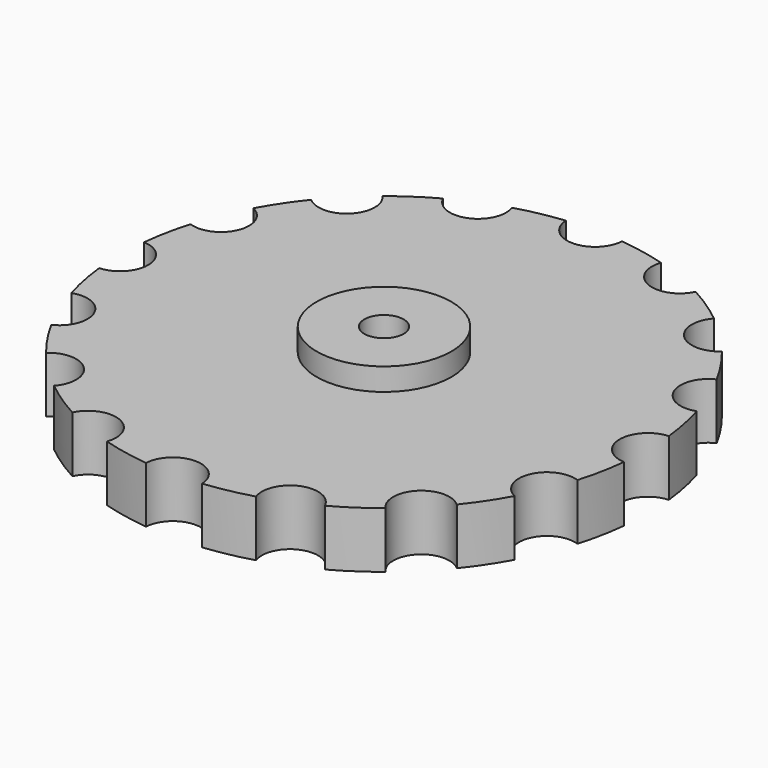
from build123d import *

# Parameters (mm, degrees)
F1_DEPTH = 5
F2_R     = 6
F3_DEPTH = 2
F4_R     = 1.75
F5_DEPTH = 25


with BuildPart() as f1:
    # F0 (on Top) → F1 (new body)
    with BuildSketch(Plane.XY):
        with BuildLine():
            ThreePointArc((23.3670212736, -2.4964608548), (21, -2.53e-08), (23.3670212796, 2.4964607985))
            ThreePointArc((23.3670212796, 2.4964607985), (23.0484540943, 4.5846225431), (22.5436668971, 6.6357428244))
            ThreePointArc((22.5436668971, 6.6357428244), (19.40147019, 8.0363520621), (20.6329585055, 11.2486009491))
            ThreePointArc((20.6329585055, 11.2486009491), (19.5395358989, 13.0559004612), (18.2882435892, 14.7577148103))
            ThreePointArc((18.2882435892, 14.7577148103), (14.8492424139, 14.849242396), (14.7577148323, 18.2882435714))
            ThreePointArc((14.7577148323, 18.2882435714), (13.0559004848, 19.5395358832), (11.248600974, 20.6329584919))
            ThreePointArc((11.248600974, 20.6329584919), (8.0363520855, 19.4014701803), (6.6357428516, 22.5436668891))
            ThreePointArc((6.6357428516, 22.5436668891), (4.5846225709, 23.0484540888), (2.4964608267, 23.3670212766))
            ThreePointArc((2.4964608267, 23.3670212766), (0, 21), (-2.4964608267, 23.3670212766))
            ThreePointArc((-2.4964608267, 23.3670212766), (-4.5846225153, 23.0484540998), (-6.6357427429, 22.5436669211))
            ThreePointArc((-6.6357427429, 22.5436669211), (-6.5289892822, 22.1334873299), (-6.4930605625, 21.7111690547))
            ThreePointArc((-6.4930605625, 21.7111690547), (-8.440272529, 19.2730498225), (-11.2486008745, 20.6329585461))
            ThreePointArc((-11.2486008745, 20.6329585461), (-13.0559003906, 19.5395359461), (-14.7577147442, 18.2882436426))
            ThreePointArc((-14.7577147442, 18.2882436426), (-14.2826746546, 17.5119294358), (-14.1170092878, 16.617009428))
            ThreePointArc((-14.1170092878, 16.617009428), (-15.5991894549, 14.3335815688), (-18.2882435181, 14.7577148984))
            ThreePointArc((-18.2882435181, 14.7577148984), (-19.539535836, 13.0559005554), (-20.6329584512, 11.2486010486))
            ThreePointArc((-20.6329584512, 11.2486010486), (-19.5962781638, 10.3261912121), (-19.2111689788, 8.9930607456))
            ThreePointArc((-19.2111689788, 8.9930607456), (-20.267431592, 6.9520751117), (-22.5436668651, 6.6357429331))
            ThreePointArc((-22.5436668651, 6.6357429331), (-23.0484540722, 4.5846226542), (-23.3670212676, 2.4964609112))
            ThreePointArc((-23.3670212676, 2.4964609112), (-21.6858270712, 1.7201095537), (-21, 8.5e-08))
            ThreePointArc((-21, 8.5e-08), (-21.6858270774, -1.7201093903), (-23.3670212856, -2.4964607422))
            ThreePointArc((-23.3670212856, -2.4964607422), (-23.0484541054, -4.5846224875), (-22.5436669131, -6.6357427701))
            ThreePointArc((-22.5436669131, -6.6357427701), (-20.2674316496, -6.9520749599), (-19.2111690438, -8.9930605886))
            ThreePointArc((-19.2111690438, -8.9930605886), (-19.5962782336, -10.3261910627), (-20.6329585326, -11.2486008994))
            ThreePointArc((-20.6329585326, -11.2486008994), (-19.5395359304, -13.0559004141), (-18.2882436248, -14.7577147662))
            ThreePointArc((-18.2882436248, -14.7577147662), (-15.5991895668, -14.3335814524), (-14.1170094079, -16.6170093078))
            ThreePointArc((-14.1170094079, -16.6170093078), (-14.282674778, -17.5119293241), (-14.7577148764, -18.2882435359))
            ThreePointArc((-14.7577148764, -18.2882435359), (-13.0559005319, -19.5395358517), (-11.2486010237, -20.6329584648))
            ThreePointArc((-11.2486010237, -20.6329584648), (-8.4402726772, -19.2730497595), (-6.4930607194, -21.7111689896))
            ThreePointArc((-6.4930607194, -21.7111689896), (-6.5289894407, -22.1334872737), (-6.6357429059, -22.5436668731))
            ThreePointArc((-6.6357429059, -22.5436668731), (-4.5846226264, -23.0484540777), (-2.496460883, -23.3670212706))
            ThreePointArc((-2.496460883, -23.3670212706), (-5.06e-08, -21), (2.4964607704, -23.3670212826))
            ThreePointArc((2.4964607704, -23.3670212826), (4.5846225153, -23.0484540998), (6.6357427973, -22.5436669051))
            ThreePointArc((6.6357427973, -22.5436669051), (8.0363520388, -19.4014701997), (11.2486009242, -20.632958519))
            ThreePointArc((11.2486009242, -20.632958519), (13.0559004377, -19.5395359147), (14.7577147882, -18.288243607))
            ThreePointArc((14.7577147882, -18.288243607), (14.8492423781, -14.8492424318), (18.2882435536, -14.7577148544))
            ThreePointArc((18.2882435536, -14.7577148544), (19.5395358675, -13.0559005083), (20.6329584783, -11.2486009988))
            ThreePointArc((20.6329584783, -11.2486009988), (19.4014701706, -8.0363521089), (22.5436668811, -6.6357428788))
            ThreePointArc((22.5436668811, -6.6357428788), (23.0484540833, -4.5846225986), (23.3670212736, -2.4964608548))
        make_face()
    extrude(amount=F1_DEPTH)

    # F2 (on face) → F3 (join)
    with BuildSketch(Plane.XY.offset(5)):
        Circle(F2_R)
    extrude(amount=F3_DEPTH)

    # F4 (on face) → F5 (cut)
    with BuildSketch(Plane.XY.offset(7)):
        Circle(F4_R)
    extrude(amount=-F5_DEPTH, mode=Mode.SUBTRACT)


solid = f1.part
